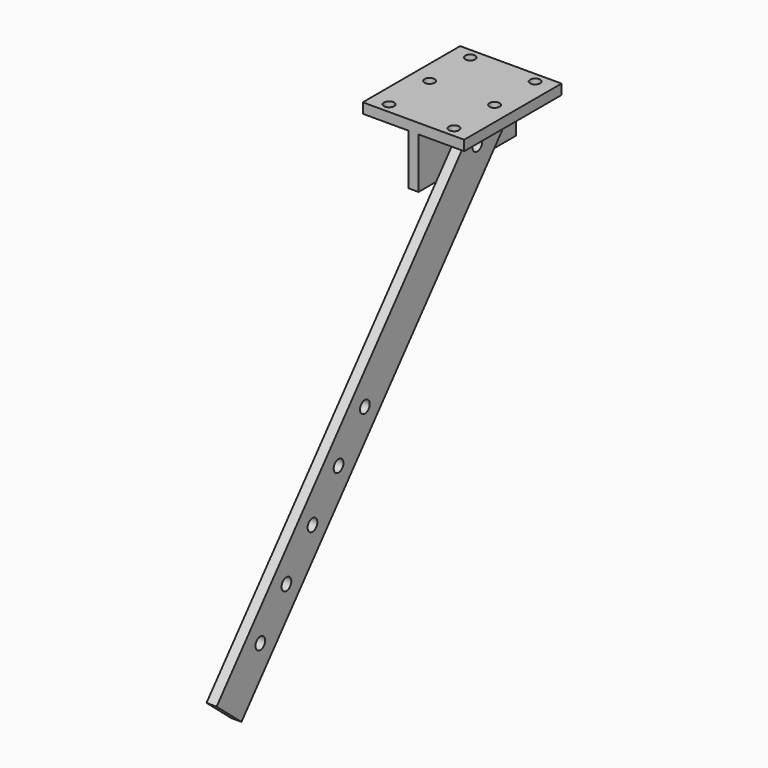
from build123d import *

# Parameters (mm, degrees)
F1_DEPTH = 120
F2_R     = 6
F3_DEPTH = 10
F4_R     = 5
F5_DEPTH = 423.023222


with BuildPart() as f1:
    # F0 (on Front) → F1 (new body)
    with BuildSketch(Plane.XZ):
        Polygon((-5, 50), (-5, 0), (5, 0), (5, 50), (50, 50), (50, 60), (-50, 60), (-50, 50), align=None)
    extrude(amount=F1_DEPTH)

    # F2 (on face) → F3 (join)
    with BuildSketch(Plane.YZ.offset(5)):
        Polygon((-29.358222, 20), (-60, 45.711504), (-381.393805, -337.310717), (-350.752027, -363.022222), align=None)
        with Locations((-327.505659, -304.203803)):
            Circle(F2_R, mode=Mode.SUBTRACT)
        with Locations((-295.366279, -265.901581)):
            Circle(F2_R, mode=Mode.SUBTRACT)
        with Locations((-263.226898, -227.599358)):
            Circle(F2_R, mode=Mode.SUBTRACT)
        with Locations((-231.087518, -189.297136)):
            Circle(F2_R, mode=Mode.SUBTRACT)
        with Locations((-198.631472, -151.262874)):
            Circle(F2_R, mode=Mode.SUBTRACT)
        with Locations((-60, 20)):
            Circle(F2_R, mode=Mode.SUBTRACT)
    extrude(amount=F3_DEPTH)

    # F4 (on face) → F5 (cut, through all)
    with BuildSketch(Plane.XY.offset(60)):
        with Locations((-32.022849, -10)):
            Circle(F4_R)
        with Locations((-32.022849, -60)):
            Circle(F4_R)
        with Locations((-32.022849, -110)):
            Circle(F4_R)
        with Locations((32.022849, -110)):
            Circle(F4_R)
        with Locations((32.022849, -60)):
            Circle(F4_R)
        with Locations((32.022849, -10)):
            Circle(F4_R)
    extrude(amount=-F5_DEPTH, mode=Mode.SUBTRACT)


solid = f1.part
